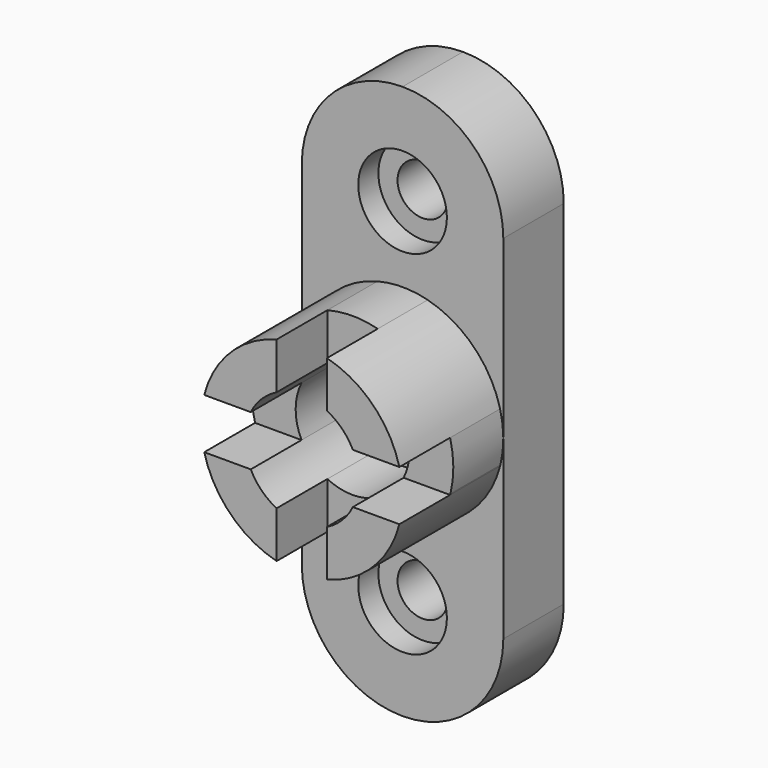
from build123d import *

# Parameters (mm, degrees)
F0_R     = 11.176
F1_DEPTH = 19.05
F0_R_2   = 6.35
F2_DEPTH = 12.7
F4_DEPTH = 31.75
F6_DEPTH = 16.002


with BuildPart() as f1:
    # F0 (on Front) → F1 (new body)
    with BuildSketch(Plane.XZ):
        with BuildLine():
            ThreePointArc((-25.4, -44.45), (-17.960512, -62.410512), (0, -69.85))
            ThreePointArc((0, -69.85), (17.960512, -62.410512), (25.4, -44.45))
            Line((25.4, -44.45), (25.4, 44.45))
            ThreePointArc((25.4, 44.45), (17.960512, 62.410512), (0, 69.85))
            ThreePointArc((0, 69.85), (-17.960512, 62.410512), (-25.4, 44.45))
            Line((-25.4, 44.45), (-25.4, -44.45))
        make_face()
        with Locations((0, -44.45)):
            Circle(F0_R, mode=Mode.SUBTRACT)
        with Locations((0, 44.45)):
            Circle(F0_R, mode=Mode.SUBTRACT)
    extrude(amount=F1_DEPTH)

    # F0 (on Front) → F2 (join)
    with BuildSketch(Plane.XZ):
        with Locations((0, -44.45)):
            Circle(F0_R)
        with Locations((0, -44.45)):
            Circle(F0_R_2, mode=Mode.SUBTRACT)
        with Locations((0, 44.45)):
            Circle(F0_R)
        with Locations((0, 44.45)):
            Circle(F0_R_2, mode=Mode.SUBTRACT)
    extrude(amount=F2_DEPTH)

    # F3 (on face) → F4 (join)
    with BuildSketch(Plane.XZ.offset(19.05)):
        with BuildLine():
            ThreePointArc((12.869681, 6.35), (13.975765, 3.260246), (14.351, 0))
            ThreePointArc((14.351, 0), (13.975765, -3.260246), (12.869681, -6.35))
            Line((12.869681, -6.35), (24.593444, -6.35))
            ThreePointArc((24.593444, -6.35), (24.631158, -6.2021), (24.667983, -6.053976))
            ThreePointArc((24.667983, -6.053976), (25.399541, 0.152632), (24.593444, 6.35))
            Line((24.593444, 6.35), (12.869681, 6.35))
        make_face()
        with BuildLine():
            ThreePointArc((6.35, 12.869681), (10.147689, 10.147689), (12.869681, 6.35))
            Line((12.869681, 6.35), (24.593444, 6.35))
            ThreePointArc((24.593444, 6.35), (17.960512, 17.960512), (6.35, 24.593444))
            Line((6.35, 24.593444), (6.35, 12.869681))
        make_face()
        with BuildLine():
            Line((24.593444, -6.35), (12.869681, -6.35))
            ThreePointArc((12.869681, -6.35), (10.147689, -10.147689), (6.35, -12.869681))
            Line((6.35, -12.869681), (6.35, -24.593444))
            ThreePointArc((6.35, -24.593444), (17.960512, -17.960512), (24.593444, -6.35))
        make_face()
        with BuildLine():
            ThreePointArc((-6.35, 12.869681), (0, 14.351), (6.35, 12.869681))
            Line((6.35, 12.869681), (6.35, 24.593444))
            ThreePointArc((6.35, 24.593444), (0, 25.4), (-6.35, 24.593444))
            Line((-6.35, 24.593444), (-6.35, 12.869681))
        make_face()
        with BuildLine():
            Line((6.35, -24.593444), (6.35, -12.869681))
            ThreePointArc((6.35, -12.869681), (0, -14.351), (-6.35, -12.869681))
            Line((-6.35, -12.869681), (-6.35, -24.593444))
            ThreePointArc((-6.35, -24.593444), (0, -25.4), (6.35, -24.593444))
        make_face()
        with BuildLine():
            ThreePointArc((-12.869681, 6.35), (-10.147689, 10.147689), (-6.35, 12.869681))
            Line((-6.35, 12.869681), (-6.35, 24.593444))
            ThreePointArc((-6.35, 24.593444), (-17.943038, 17.977969), (-24.581048, 6.397819))
            ThreePointArc((-24.581048, 6.397819), (-24.587258, 6.373913), (-24.593444, 6.35))
            Line((-24.593444, 6.35), (-12.869681, 6.35))
        make_face()
        with BuildLine():
            Line((-6.35, -24.593444), (-6.35, -12.869681))
            ThreePointArc((-6.35, -12.869681), (-10.147689, -10.147689), (-12.869681, -6.35))
            Line((-12.869681, -6.35), (-24.593444, -6.35))
            ThreePointArc((-24.593444, -6.35), (-17.960512, -17.960512), (-6.35, -24.593444))
        make_face()
        with BuildLine():
            ThreePointArc((-12.869681, -6.35), (-14.351, 0), (-12.869681, 6.35))
            Line((-12.869681, 6.35), (-24.593444, 6.35))
            ThreePointArc((-24.593444, 6.35), (-25.4, 0), (-24.593444, -6.35))
            Line((-24.593444, -6.35), (-12.869681, -6.35))
        make_face()
    extrude(amount=F4_DEPTH)

    # F5 (on face) → F6 (cut)
    with BuildSketch(Plane.XZ.offset(50.8)):
        with BuildLine():
            ThreePointArc((24.667983, -6.053976), (25.399541, 0.152632), (24.593444, 6.35))
            Line((24.593444, 6.35), (12.869681, 6.35))
            ThreePointArc((12.869681, 6.35), (13.975765, 3.260246), (14.351, 0))
            ThreePointArc((14.351, 0), (13.975765, -3.260246), (12.869681, -6.35))
            Line((12.869681, -6.35), (24.593444, -6.35))
            ThreePointArc((24.593444, -6.35), (24.631158, -6.2021), (24.667983, -6.053976))
        make_face()
        with BuildLine():
            ThreePointArc((-12.869681, -6.35), (-14.351, 0), (-12.869681, 6.35))
            Line((-12.869681, 6.35), (-24.593444, 6.35))
            ThreePointArc((-24.593444, 6.35), (-25.4, 0), (-24.593444, -6.35))
            Line((-24.593444, -6.35), (-12.869681, -6.35))
        make_face()
        with BuildLine():
            ThreePointArc((6.35, -12.869681), (0, -14.351), (-6.35, -12.869681))
            Line((-6.35, -12.869681), (-6.35, -24.593444))
            ThreePointArc((-6.35, -24.593444), (0, -25.4), (6.35, -24.593444))
            Line((6.35, -24.593444), (6.35, -12.869681))
        make_face()
        with BuildLine():
            ThreePointArc((6.35, 24.593444), (0, 25.4), (-6.35, 24.593444))
            Line((-6.35, 24.593444), (-6.35, 12.869681))
            ThreePointArc((-6.35, 12.869681), (0, 14.351), (6.35, 12.869681))
            Line((6.35, 12.869681), (6.35, 24.593444))
        make_face()
    extrude(amount=-F6_DEPTH, mode=Mode.SUBTRACT)


solid = f1.part
